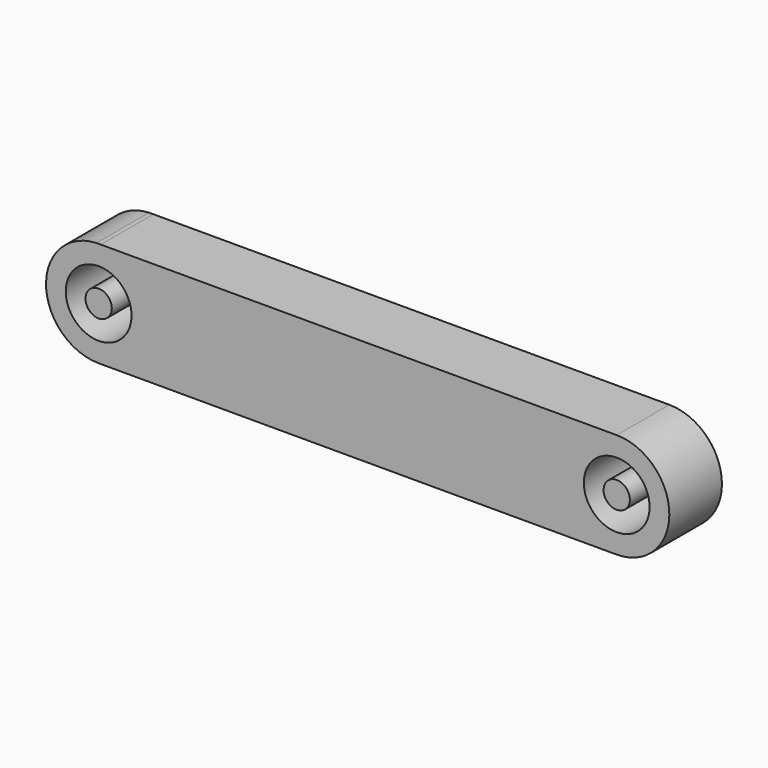
from build123d import *

# Parameters (mm, degrees)
F0_R     = 2.5
F1_DEPTH = 5
F0_R_2   = 1
F2_DEPTH = 5


with BuildPart() as f1:
    # F0 (on Front) → F1 (new body)
    with BuildSketch(Plane.XZ):
        with BuildLine():
            Line((23.491598, 25.140082), (-15.743496, 25.136695))
            Line((-15.743496, 25.136695), (-16.073308, 25.136667))
            ThreePointArc((-16.073308, 25.136667), (-19.907202, 21.057374), (-15.907927, 17.140082))
            Line((-15.907927, 17.140082), (23.390915, 17.141358))
            ThreePointArc((23.390915, 17.141358), (27.491626, 21.089736), (23.491598, 25.140082))
        make_face()
        with Locations((-15.908057, 21.140082)):
            Circle(F0_R, mode=Mode.SUBTRACT)
        with BuildLine():
            ThreePointArc((25.991943, 21.140082), (23.491943, 18.640082), (20.991943, 21.140082))
            ThreePointArc((20.991943, 21.140082), (23.491943, 23.640082), (25.991943, 21.140082))
        make_face(mode=Mode.SUBTRACT)
    extrude(amount=F1_DEPTH)


with BuildPart() as f2:
    # F0 (on Front) → F2 (new body)
    with BuildSketch(Plane.XZ):
        with Locations((-15.908057, 21.140082)):
            Circle(F0_R_2)
        with BuildLine():
            ThreePointArc((24.491943, 21.140082), (23.491943, 22.140082), (22.491943, 21.140082))
            ThreePointArc((22.491943, 21.140082), (23.491943, 20.140082), (24.491943, 21.140082))
        make_face()
    extrude(amount=F2_DEPTH)


solid = Compound([f1.part, f2.part])
